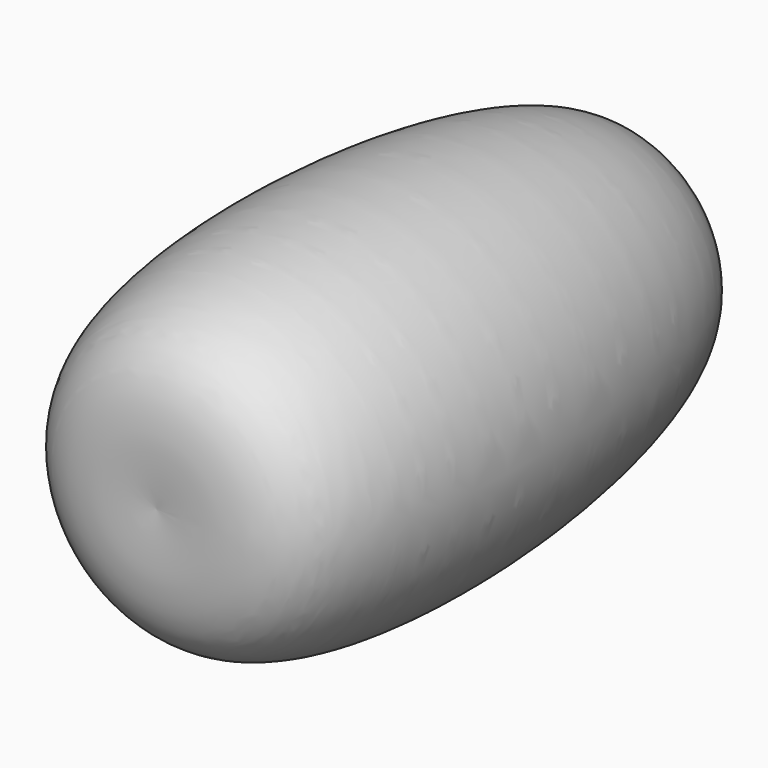
from build123d import *


with BuildPart() as f1:
    # F0 (on Top) → F1 (revolve)
    with BuildSketch(Plane.XY):
        with BuildLine():
            Line((0, 15), (0, 0))
            add(Edge.make_bspline(
                [(0, 15), (1.6121358047, 15.0743204014), (4.2844082544, 14.6143539793), (5.0842291199, 0.2135717768), (2.053022783, -0.2063983912), (0, 0)],
                knots=[0, 0, 0, 0, 0.2559837694, 0.7261755692, 1, 1, 1, 1], degree=3))
        make_face()
    revolve(axis=Axis((0, 7.5, 0), (0, 1, 0)))


solid = f1.part
